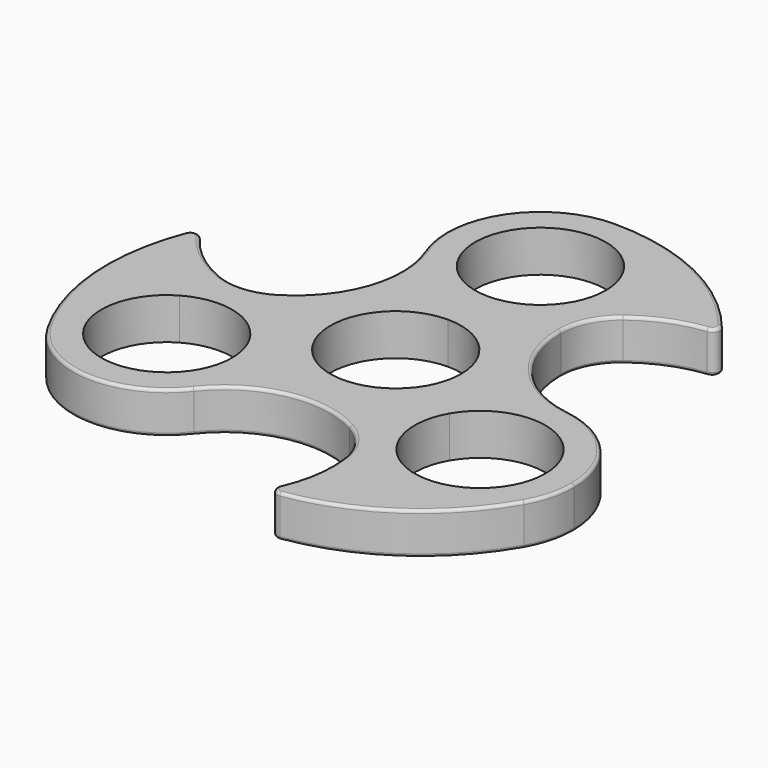
from build123d import *

# Parameters (mm, degrees)
F1_DEPTH = 6.985
F2_R     = 10.16
F3_R     = 1.27
F4_R     = 0.508
F5_R     = 0.508


with BuildPart() as f1:
    # F0 (on Top) → F1 (new body)
    with BuildSketch(Plane.XY):
        with BuildLine():
            ThreePointArc((0, 11.0109), (7.785882057, 7.785882057), (11.0109, 0))
            ThreePointArc((11.0109, 0), (10.6357126807, -2.8498306237), (9.5357191185, -5.50545))
            Line((9.5357191185, -5.50545), (12.6483010223, -7.3025))
            ThreePointArc((12.6483010223, -7.3025), (19.4798921793, -0.9509554788), (28.6995460988, 0.4670491563))
            ThreePointArc((28.6995460988, 0.4670491563), (16.3583978664, 8.3892096636), (14.1678553671, 22.8897644928))
            ThreePointArc((14.1678553671, 22.8897644928), (13.5709934127, 22.1477976873), (13.0078525094, 21.379923182))
            ThreePointArc((13.0078525094, 21.379923182), (7.333208899, 16.4002389138), (0, 14.605))
            Line((0, 14.605), (0, 11.0109))
        make_face()
        with BuildLine():
            ThreePointArc((-9.5357191185, -5.50545), (-9.5357191185, 5.50545), (0, 11.0109))
            Line((0, 11.0109), (0, 14.605))
            ThreePointArc((0, 14.605), (-8.9163944871, 17.3455592297), (-14.7542494836, 24.6210114205))
            ThreePointArc((-14.7542494836, 24.6210114205), (-15.4444676196, 9.9721832857), (-26.907045221, 0.8248404186))
            ThreePointArc((-26.907045221, 0.8248404186), (-25.9660521415, 0.6789262064), (-25.0194828612, 0.5751691308))
            ThreePointArc((-25.0194828612, 0.5751691308), (-17.869627977, -1.8493742591), (-12.6483010223, -7.3025))
            Line((-12.6483010223, -7.3025), (-9.5357191185, -5.50545))
        make_face()
        with BuildLine():
            Line((12.6483010223, -7.3025), (9.5357191185, -5.50545))
            ThreePointArc((9.5357191185, -5.50545), (0, -11.0109), (-9.5357191185, -5.50545))
            Line((-9.5357191185, -5.50545), (-12.6483010223, -7.3025))
            ThreePointArc((-12.6483010223, -7.3025), (-11.062381815, -11.131247659), (-10.5214543073, -15.24))
            ThreePointArc((-10.5214543073, -15.24), (-11.4018260465, -20.4531322944), (-13.9452966152, -25.0880605769))
            ThreePointArc((-13.9452966152, -25.0880605769), (-0.9139302469, -18.3613929493), (12.7391898539, -23.7146049114))
            ThreePointArc((12.7391898539, -23.7146049114), (12.3950587287, -22.8267238937), (12.0116303519, -21.9550923128))
            ThreePointArc((12.0116303519, -21.9550923128), (10.536419078, -14.5508646547), (12.6483010223, -7.3025))
        make_face()
        with BuildLine():
            ThreePointArc((-14.7542494836, 24.6210114205), (-8.9163944871, 17.3455592297), (0, 14.605))
            Line((0, 14.605), (0, 19.4691))
            ThreePointArc((0, 19.4691), (-7.785882057, 38.265882057), (11.0109, 30.48))
            Line((11.0109, 30.48), (15.875, 30.48))
            ThreePointArc((15.875, 30.48), (11.2253201513, 41.7053201513), (0, 46.355))
            ThreePointArc((0, 46.355), (-13.1344407703, 39.3963944871), (-14.7542494836, 24.6210114205))
        make_face()
        with BuildLine():
            ThreePointArc((28.6995460988, 0.4670491563), (19.4798921793, -0.9509554788), (12.6483010223, -7.3025))
            Line((12.6483010223, -7.3025), (16.8607351888, -9.73455))
            ThreePointArc((16.8607351888, -9.73455), (29.2462849311, -4.6042873193), (37.4073543073, -15.24))
            ThreePointArc((37.4073543073, -15.24), (31.9019043073, -24.7757191185), (20.8910043073, -24.7757191185))
            Line((20.8910043073, -24.7757191185), (18.4589543073, -28.9881532851))
            ThreePointArc((18.4589543073, -28.9881532851), (30.5052066484, -30.5740724923), (40.1446075924, -23.1775))
            ThreePointArc((40.1446075924, -23.1775), (41.7305267997, -19.348752341), (42.2714543073, -15.24))
            ThreePointArc((42.2714543073, -15.24), (38.408473438, -4.860837153), (28.6995460988, 0.4670491563))
        make_face()
        with BuildLine():
            ThreePointArc((-10.5214543073, -15.24), (-11.062381815, -11.131247659), (-12.6483010223, -7.3025))
            Line((-12.6483010223, -7.3025), (-16.8607351888, -9.73455))
            ThreePointArc((-16.8607351888, -9.73455), (-15.7607416267, -12.3901693763), (-15.3855543073, -15.24))
            ThreePointArc((-15.3855543073, -15.24), (-31.9019043073, -24.7757191185), (-31.9019043073, -5.7042808815))
            Line((-31.9019043073, -5.7042808815), (-34.3339543073, -1.4918467149))
            ThreePointArc((-34.3339543073, -1.4918467149), (-41.7305267997, -11.131247659), (-40.1446075924, -23.1775))
            ThreePointArc((-40.1446075924, -23.1775), (-27.5510580582, -31.0729566152), (-13.9452966152, -25.0880605769))
            ThreePointArc((-13.9452966152, -25.0880605769), (-11.4018260465, -20.4531322944), (-10.5214543073, -15.24))
        make_face()
        with BuildLine():
            ThreePointArc((14.7542494836, 24.6210114205), (13.9753261146, 22.9496689987), (13.0078525094, 21.379923182))
            ThreePointArc((13.0078525094, 21.379923182), (13.5709934127, 22.1477976873), (14.1678553671, 22.8897644928))
            ThreePointArc((14.1678553671, 22.8897644928), (14.4387902564, 23.7629284205), (14.7542494836, 24.6210114205))
        make_face()
        with BuildLine():
            ThreePointArc((13.9452966152, -25.0880605769), (12.887333304, -23.5778219408), (12.0116303519, -21.9550923128))
            ThreePointArc((12.0116303519, -21.9550923128), (12.3950587287, -22.8267238937), (12.7391898539, -23.7146049114))
            ThreePointArc((12.7391898539, -23.7146049114), (13.3599045523, -24.3858233722), (13.9452966152, -25.0880605769))
        make_face()
        with BuildLine():
            ThreePointArc((-28.6995460988, 0.4670491563), (-26.8626594186, 0.6281529421), (-25.0194828612, 0.5751691308))
            ThreePointArc((-25.0194828612, 0.5751691308), (-25.9660521415, 0.6789262064), (-26.907045221, 0.8248404186))
            ThreePointArc((-26.907045221, 0.8248404186), (-27.7986948087, 0.6228949517), (-28.6995460988, 0.4670491563))
        make_face()
        with BuildLine():
            ThreePointArc((30.48, 30.48), (17.1831750922, 42.1483961771), (0, 46.355))
            ThreePointArc((0, 46.355), (11.2253201513, 41.7053201513), (15.875, 30.48))
            Line((15.875, 30.48), (30.48, 30.48))
        make_face()
        with BuildLine():
            ThreePointArc((-28.6995460988, 0.4670491563), (-27.7986948087, 0.6228949517), (-26.907045221, 0.8248404186))
            ThreePointArc((-26.907045221, 0.8248404186), (-35.4147646036, 4.3610923541), (-41.6364543073, 11.1564543073))
            Line((-41.6364543073, 11.1564543073), (-34.3339543073, -1.4918467149))
            ThreePointArc((-34.3339543073, -1.4918467149), (-31.6095866017, -0.2453717391), (-28.6995460988, 0.4670491563))
        make_face()
        with BuildLine():
            ThreePointArc((15.875, 30.48), (15.5922951414, 27.4973908698), (14.7542494836, 24.6210114205))
            ThreePointArc((14.7542494836, 24.6210114205), (14.4387902564, 23.7629284205), (14.1678553671, 22.8897644928))
            ThreePointArc((14.1678553671, 22.8897644928), (21.4841990687, 28.4895396387), (30.48, 30.48))
            Line((30.48, 30.48), (15.875, 30.48))
        make_face()
        with BuildLine():
            ThreePointArc((18.4589543073, -28.9881532851), (16.0172914603, -27.2520191306), (13.9452966152, -25.0880605769))
            ThreePointArc((13.9452966152, -25.0880605769), (13.3599045523, -24.3858233722), (12.7391898539, -23.7146049114))
            ThreePointArc((12.7391898539, -23.7146049114), (13.9305655349, -32.8506319928), (11.1564543073, -41.6364543073))
            Line((11.1564543073, -41.6364543073), (18.4589543073, -28.9881532851))
        make_face()
        with BuildLine():
            Line((-34.3339543073, -1.4918467149), (-41.6364543073, 11.1564543073))
            ThreePointArc((-41.6364543073, 11.1564543073), (-45.0931693642, -6.193131941), (-40.1446075924, -23.1775))
            ThreePointArc((-40.1446075924, -23.1775), (-41.7305267997, -11.131247659), (-34.3339543073, -1.4918467149))
        make_face()
        with BuildLine():
            ThreePointArc((40.1446075924, -23.1775), (30.5052066484, -30.5740724923), (18.4589543073, -28.9881532851))
            Line((18.4589543073, -28.9881532851), (11.1564543073, -41.6364543073))
            ThreePointArc((11.1564543073, -41.6364543073), (27.909994272, -35.9552642361), (40.1446075924, -23.1775))
        make_face()
        with BuildLine():
            Line((-16.8607351888, -9.73455), (-12.6483010223, -7.3025))
            ThreePointArc((-12.6483010223, -7.3025), (-17.869627977, -1.8493742591), (-25.0194828612, 0.5751691308))
            ThreePointArc((-25.0194828612, 0.5751691308), (-26.8626594186, 0.6281529421), (-28.6995460988, 0.4670491563))
            ThreePointArc((-28.6995460988, 0.4670491563), (-31.6095866017, -0.2453717391), (-34.3339543073, -1.4918467149))
            Line((-34.3339543073, -1.4918467149), (-31.9019043073, -5.7042808815))
            ThreePointArc((-31.9019043073, -5.7042808815), (-23.5466236836, -4.6042873193), (-16.8607351888, -9.73455))
        make_face()
        with BuildLine():
            Line((0, 19.4691), (0, 14.605))
            ThreePointArc((0, 14.605), (7.333208899, 16.4002389138), (13.0078525094, 21.379923182))
            ThreePointArc((13.0078525094, 21.379923182), (13.9753261146, 22.9496689987), (14.7542494836, 24.6210114205))
            ThreePointArc((14.7542494836, 24.6210114205), (15.5922951414, 27.4973908698), (15.875, 30.48))
            Line((15.875, 30.48), (11.0109, 30.48))
            ThreePointArc((11.0109, 30.48), (7.785882057, 22.694117943), (0, 19.4691))
        make_face()
        with BuildLine():
            Line((16.8607351888, -9.73455), (12.6483010223, -7.3025))
            ThreePointArc((12.6483010223, -7.3025), (10.536419078, -14.5508646547), (12.0116303519, -21.9550923128))
            ThreePointArc((12.0116303519, -21.9550923128), (12.887333304, -23.5778219408), (13.9452966152, -25.0880605769))
            ThreePointArc((13.9452966152, -25.0880605769), (16.0172914603, -27.2520191306), (18.4589543073, -28.9881532851))
            Line((18.4589543073, -28.9881532851), (20.8910043073, -24.7757191185))
            ThreePointArc((20.8910043073, -24.7757191185), (15.7607416267, -18.0898306237), (16.8607351888, -9.73455))
        make_face()
    extrude(amount=F1_DEPTH)

    # F2
    f2_edges = [f1.edges().sort_by_distance(p)[0] for p in [
        (12.73919, -23.714605, 3.4925),
        (-26.907045, 0.82484, 3.4925),
        (14.167855, 22.889764, 3.4925),
    ]]
    fillet(f2_edges, radius=F2_R)

    # F3
    f3_edges = [f1.edges().sort_by_distance(p)[0] for p in [
        (-41.636454, 11.156454, 3.4925),
        (11.156454, -41.636454, 3.4925),
        (30.48, 30.48, 3.4925),
    ]]
    fillet(f3_edges, radius=F3_R)

    # F4
    f4_edges = [f1.edges().sort_by_distance(p)[0] for p in [
        (-14.46028, 12.291903, 6.985),
    ]]
    fillet(f4_edges, radius=F4_R)

    # F5
    f5_edges = [f1.edges().sort_by_distance(p)[0] for p in [
        (16.103663, 42.688559, 0),
    ]]
    fillet(f5_edges, radius=F5_R)


solid = f1.part
